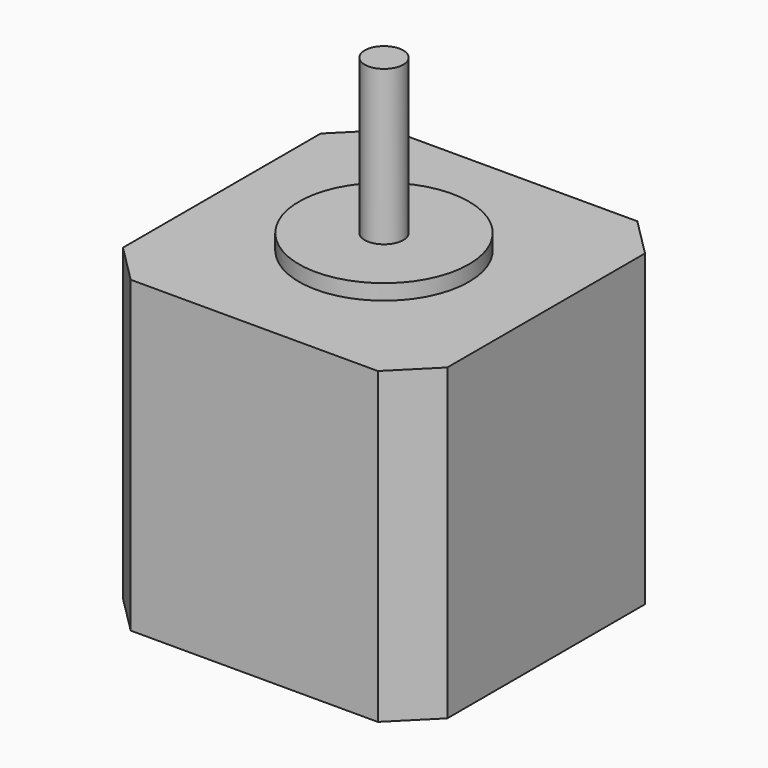
from build123d import *

# Parameters (mm, degrees)
F0_W     = 42
F0_H     = 42
F1_DEPTH = 40
F2_R     = 11
F3_DEPTH = 2
F4_R     = 2.5
F5_DEPTH = 20
F6_SIZE  = 5


with BuildPart() as f1:
    # F0 (on Top) → F1 (new body)
    with BuildSketch(Plane.XY):
        Rectangle(F0_W, F0_H)
    extrude(amount=F1_DEPTH)

    # F2 (on face) → F3 (join)
    with BuildSketch(Plane.XY.offset(40)):
        Circle(F2_R)
    extrude(amount=F3_DEPTH)

    # F4 (on face) → F5 (join)
    with BuildSketch(Plane.XY.offset(42)):
        Circle(F4_R)
    extrude(amount=F5_DEPTH)

    # F6
    f6_edges = [f1.edges().sort_by_distance(p)[0] for p in [
        (21, -21, 20),
        (-21, 21, 20),
        (-21, -21, 20),
        (21, 21, 20),
    ]]
    chamfer(f6_edges, length=F6_SIZE)


solid = f1.part
